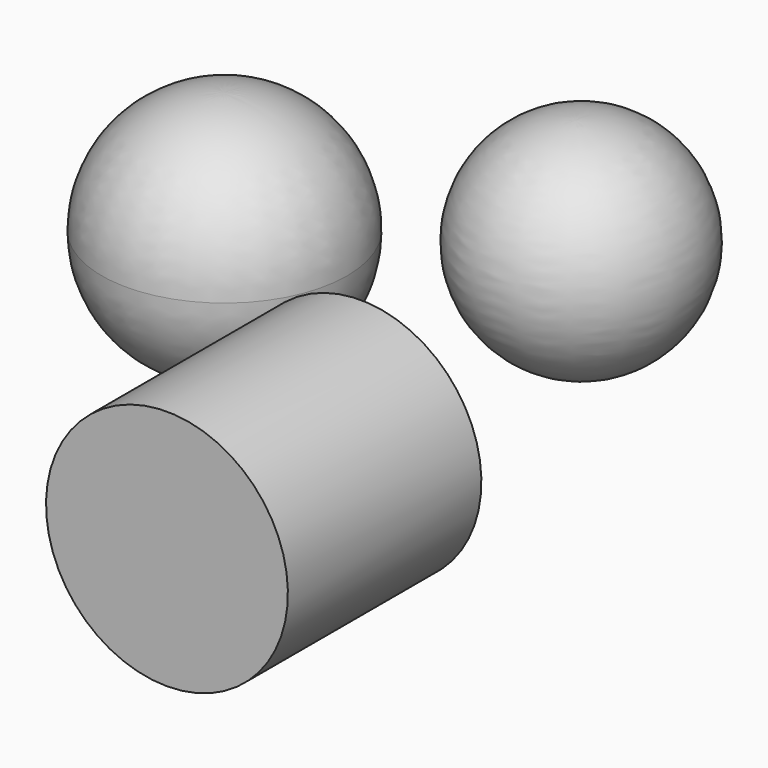
from build123d import *

# Parameters (mm, degrees)
F1_W = 50.8
F1_H = 25.4


with BuildPart() as f2:
    # F1 (on Right) → F2 (revolve)
    with BuildSketch(Plane.YZ):
        with Locations((-51.6508261949, 4.1705512743)):
            Rectangle(F1_W, F1_H)
    revolve(axis=Axis((0, -51.6508261949, 16.8705512743), (0, 1, 0)))


with BuildPart() as f3:
    # F0 (on Front) → F3 (revolve)
    with BuildSketch(Plane.XZ):
        with BuildLine():
            ThreePointArc((-49.563170328, 2.8968896779), (-31.3687688642, 10.2060741882), (-23.8006503046, 28.2943025231))
            ThreePointArc((-23.8006503046, 28.2943025231), (-31.3687688642, 46.3825308581), (-49.563170328, 53.6917153684))
            Line((-49.563170328, 53.6917153684), (-49.563170328, 2.8968896779))
        make_face()
    revolve(axis=Axis((-49.563170328, 0, 28.2943025231), (0, 0, -1)))


with BuildPart() as f5:
    # F4 (on Right) → F5 (revolve)
    with BuildSketch(Plane.YZ):
        with BuildLine():
            Line((30.3188757902, 52.4883910418), (33.0561809242, 6.6020037048))
            ThreePointArc((33.0561809242, 6.6020037048), (54.7421160874, 30.9204950382), (30.3188757902, 52.4883910418))
        make_face()
    revolve(axis=Axis((0, 31.6875283572, 29.5451973733), (0, 0.0595481094, -0.9982254368)))


solid = Compound([f2.part, f3.part, f5.part])
